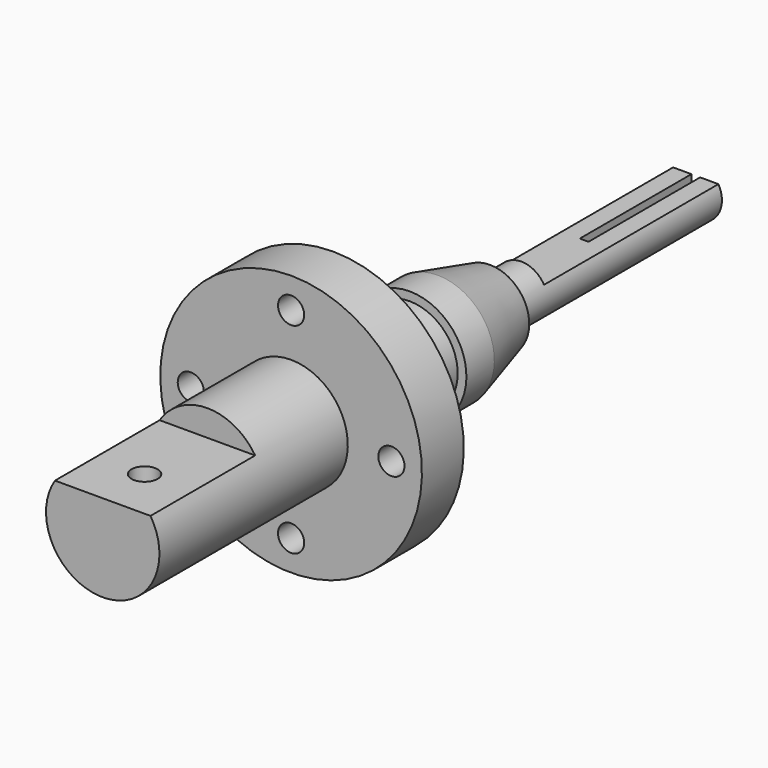
from build123d import *

# Parameters (mm, degrees)
F0_W      = 1371.6
F0_H      = 330.2
F0_W_2    = 228.6
F0_H_2    = 279.4
F0_W_3    = 812.8
F0_H_3    = 79.6570703387
F0_H_4    = 72.7429296613
F0_W_4    = 457.2
F2_R      = 76.2
F3_DEPTH  = 1676.401
F5_DEPTH  = 762
F6_R      = 76.2
F7_DEPTH  = 355.6
F9_DEPTH  = 1270
F11_DEPTH = 812.8


with BuildPart() as f1:
    # F0 (on Right) → F1 (revolve)
    with BuildSketch(Plane.YZ):
        with Locations((-123.5636745517, 165.1)):
            Rectangle(F0_W, F0_H)
        Polygon((562.2363254483, 330.2), (562.2363254483, 0), (867.0363254483, 0), (867.0363254483, 330.2), (867.0363254483, 762), (562.2363254483, 762), align=None)
        Polygon((867.0363254483, 330.2), (867.0363254483, 0), (1197.2363254483, 0), (1197.2363254483, 279.4), (1197.2363254483, 330.2), align=None)
        with Locations((1311.5363254483, 139.7)):
            Rectangle(F0_W_2, F0_H_2)
        Polygon((1425.8363254483, 279.4), (1425.8363254483, 0), (1629.0363254483, 0), (1629.0363254483, 330.2), (1425.8363254483, 330.2), align=None)
        Polygon((1629.0363254483, 330.2), (1629.0363254483, 0), (2010.0363254483, 0), (2010.0363254483, 152.4), (2010.0363254483, 228.6), align=None)
        Polygon((2010.0363254483, 152.4), (2010.0363254483, 0), (2695.8363254483, 0), (2695.8363254483, 79.6570703387), (2238.6363254483, 79.6570703387), (2238.6363254483, 152.4), align=None)
        with Locations((3102.2363254483, 39.8285351694)):
            Rectangle(F0_W_3, F0_H_3)
        with Locations((3102.2363254483, 116.0285351694)):
            Rectangle(F0_W_3, F0_H_4)
        with Locations((2467.2363254483, 116.0285351694)):
            Rectangle(F0_W_4, F0_H_4)
    revolve(axis=Axis((0, 1349.6363254483, 0), (0, 1, 0)))

    # F2 (on face) → F3 (cut, through all)
    with BuildSketch(Plane(origin=(0, 867.0363254483, 0), x_dir=(-1, 0, 0), z_dir=(0, 1, 0))):
        with Locations((-584.2, 0)):
            Circle(F2_R)
        with Locations((0, 584.2)):
            Circle(F2_R)
        with Locations((0, -584.2)):
            Circle(F2_R)
        with Locations((584.2, 0)):
            Circle(F2_R)
    extrude(amount=-F3_DEPTH, mode=Mode.SUBTRACT)

    # F4 (on face) → F5 (cut)
    with BuildSketch(Plane.XZ.offset(809.3636745517)):
        with BuildLine():
            ThreePointArc((278.2430592126, 177.8), (0, 330.2), (-278.2430592126, 177.8))
            Line((-278.2430592126, 177.8), (278.2430592126, 177.8))
        make_face()
    extrude(amount=-F5_DEPTH, mode=Mode.SUBTRACT)

    # F6 (on face) → F7 (cut)
    with BuildSketch(Plane.XY.offset(177.8)):
        with Locations((0, -504.5636745517)):
            Circle(F6_R)
    extrude(amount=-F7_DEPTH, mode=Mode.SUBTRACT)

    # F8 (on face) → F9 (cut)
    with BuildSketch(Plane(origin=(0, 3508.6363254483, 0), x_dir=(-1, 0, 0), z_dir=(0, 1, 0))):
        with BuildLine():
            ThreePointArc((131.9822715367, 76.2), (0, 152.4), (-131.9822715367, 76.2))
            Line((-131.9822715367, 76.2), (131.9822715367, 76.2))
        make_face()
    extrude(amount=-F9_DEPTH, mode=Mode.SUBTRACT)

    # F10 (on face) → F11 (cut)
    with BuildSketch(Plane(origin=(0, 3508.6363254483, 0), x_dir=(-1, 0, 0), z_dir=(0, 1, 0))):
        with BuildLine():
            Line((25.4, 76.2), (-25.4, 76.2))
            Line((-25.4, 76.2), (-25.4, -150.2684264907))
            ThreePointArc((-25.4, -150.2684264907), (0, -152.4), (25.4, -150.2684264907))
            Line((25.4, -150.2684264907), (25.4, 76.2))
        make_face()
    extrude(amount=-F11_DEPTH, mode=Mode.SUBTRACT)


solid = f1.part
